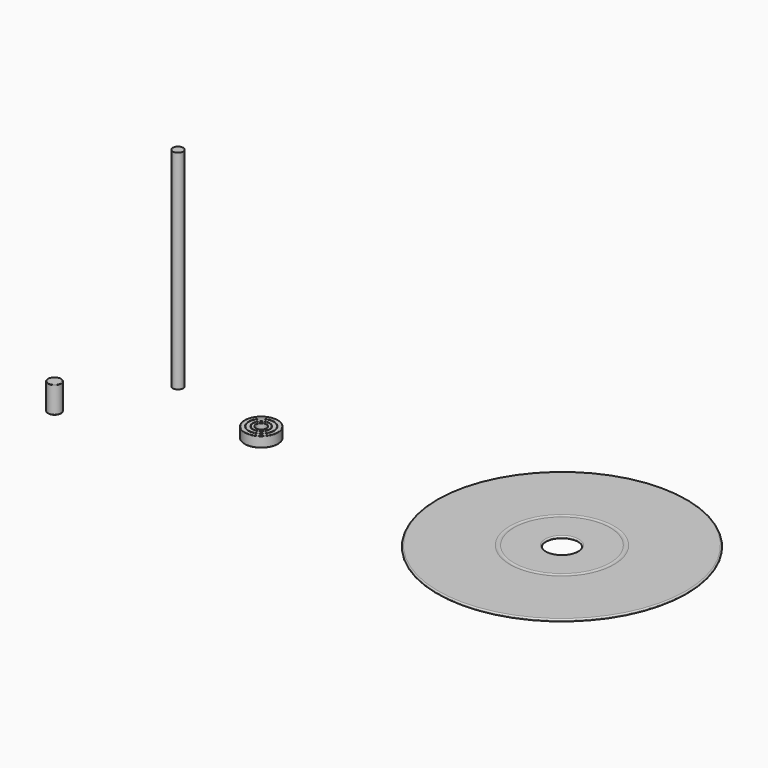
from build123d import *

# Parameters (mm, degrees)
F4_R     = 2.5
F5_DEPTH = 100
F6_R     = 3.175
F7_DEPTH = 12.7
F8_R     = 0.2
F9_R     = 0.2


with BuildPart() as f1:
    # F0 (on Front) → F1 (revolve)
    with BuildSketch(Plane.XZ):
        with BuildLine():
            ThreePointArc((18.906698, -1.42041), (18.965276, -1.561832), (19.106698, -1.62041))
            Line((19.106698, -1.62041), (20.206698, -1.62041))
            ThreePointArc((20.206698, -1.62041), (20.348119, -1.561832), (20.406698, -1.42041))
            Line((20.406698, -1.42041), (20.406698, 3.17959))
            ThreePointArc((20.406698, 3.17959), (20.348119, 3.321011), (20.206698, 3.37959))
            Line((20.206698, 3.37959), (19.106698, 3.37959))
            ThreePointArc((19.106698, 3.37959), (18.965276, 3.321011), (18.906698, 3.17959))
            Line((18.906698, 3.17959), (18.906698, 2.770025))
            Line((18.906698, 2.770025), (18.906698, -1.42041))
        make_face()
    revolve(axis=Axis((16.406698, 0, 0.928145), (0, 0, -1)))

    # F0 (on Front) → F2 (revolve)
    with BuildSketch(Plane.XZ):
        with BuildLine():
            Line((20.406698, 3.17959), (20.406698, -1.42041))
            ThreePointArc((20.406698, -1.42041), (20.465276, -1.561832), (20.606698, -1.62041))
            Line((20.606698, -1.62041), (22.206698, -1.62041))
            ThreePointArc((22.206698, -1.62041), (22.348119, -1.561832), (22.406698, -1.42041))
            Line((22.406698, -1.42041), (22.406698, 3.17959))
            ThreePointArc((22.406698, 3.17959), (22.348119, 3.321011), (22.206698, 3.37959))
            Line((22.206698, 3.37959), (20.606698, 3.37959))
            ThreePointArc((20.606698, 3.37959), (20.465276, 3.321011), (20.406698, 3.17959))
        make_face()
    revolve(axis=Axis((16.406698, 0, 0.928145), (0, 0, -1)))

    # F0 (on Front) → F3 (revolve)
    with BuildSketch(Plane.XZ):
        with BuildLine():
            Line((22.406698, 3.17959), (22.406698, -1.42041))
            ThreePointArc((22.406698, -1.42041), (22.465276, -1.561832), (22.606698, -1.62041))
            Line((22.606698, -1.62041), (24.206698, -1.62041))
            ThreePointArc((24.206698, -1.62041), (24.348119, -1.561832), (24.406698, -1.42041))
            Line((24.406698, -1.42041), (24.406698, 3.17959))
            ThreePointArc((24.406698, 3.17959), (24.348119, 3.321011), (24.206698, 3.37959))
            Line((24.206698, 3.37959), (22.606698, 3.37959))
            ThreePointArc((22.606698, 3.37959), (22.465276, 3.321011), (22.406698, 3.17959))
        make_face()
    revolve(axis=Axis((16.406698, 0, 0.928145), (0, 0, -1)))


with BuildPart() as f5:
    # F4 (on Top) → F5 (new body)
    with BuildSketch(Plane.XY):
        with Locations((-32.201011, 10.822965)):
            Circle(F4_R)
    extrude(amount=F5_DEPTH)


with BuildPart() as f7:
    # F6 (on Top) → F7 (new body)
    with BuildSketch(Plane.XY):
        with Locations((-55.77128, -33.750001)):
            Circle(F6_R)
    extrude(amount=F7_DEPTH)

    # F8
    f8_edges = [f7.edges().sort_by_distance(p)[0] for p in [
        (-58.94628, -33.750001, 12.7),
    ]]
    fillet(f8_edges, radius=F8_R)

    # F9
    f9_edges = [f7.edges().sort_by_distance(p)[0] for p in [
        (-58.94628, -33.750001, 0),
    ]]
    fillet(f9_edges, radius=F9_R)


with BuildPart() as f11:
    # F10 (on Front) → F11 (revolve)
    with BuildSketch(Plane.XZ):
        with BuildLine():
            Line((102.182137, 0), (101.282137, 0))
            ThreePointArc((101.282137, 0), (100.857873, -0.175736), (100.682137, -0.6))
            ThreePointArc((100.682137, -0.6), (100.857873, -1.024264), (101.282137, -1.2))
            Line((101.282137, -1.2), (135.682137, -1.2))
            add(Edge.make_bspline(
                [(135.682137, -1.2), (136.01547, -1.05), (136.682137, -0.75), (137.348804, -1.05), (137.682137, -1.2)],
                knots=[0, 0, 0, 0, 1.044031, 2.088061, 2.088061, 2.088061, 2.088061], degree=3))
            Line((137.682137, -1.2), (152.582137, -1.2))
            ThreePointArc((152.582137, -1.2), (153.006401, -1.024264), (153.182137, -0.6))
            ThreePointArc((153.182137, -0.6), (153.006401, -0.175736), (152.582137, 0))
            Line((152.582137, 0), (137.682137, 0))
            add(Edge.make_bspline(
                [(135.682137, 0), (136.01547, -0.15), (136.682137, -0.45), (137.348804, -0.15), (137.682137, 0)],
                knots=[0, 0, 0, 0, 1.044031, 2.088061, 2.088061, 2.088061, 2.088061], degree=3))
            Line((135.682137, 0), (102.182137, 0))
        make_face()
    revolve(axis=Axis((160.682137, 0, -0.6), (0, 0, -1)))


solid = Compound([f1.part, f5.part, f7.part, f11.part])
